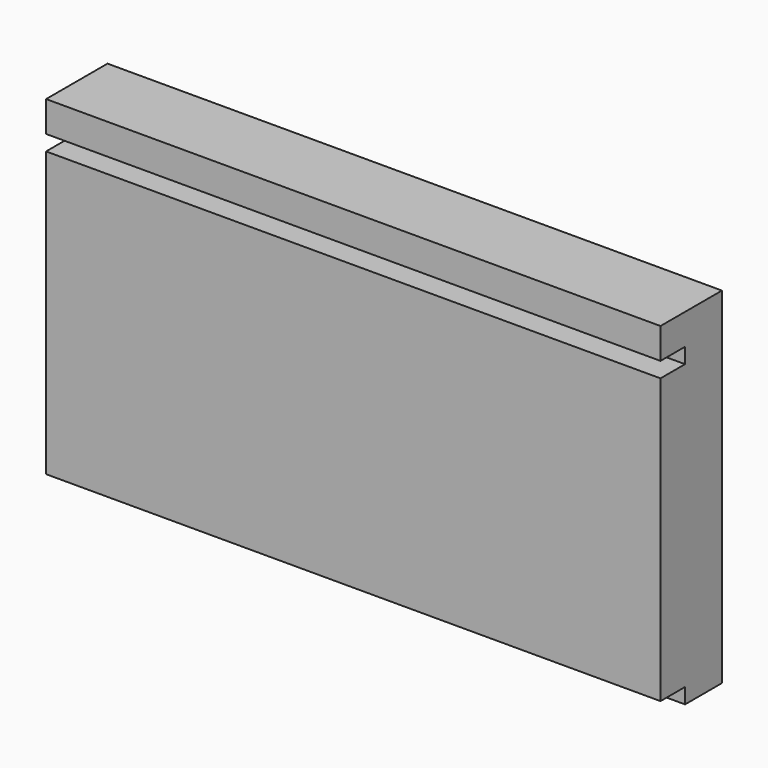
from build123d import *

# Parameters (mm, degrees)
F0_W     = 160
F0_H     = 8
F0_H_2   = 4
F0_H_3   = 74
F1_DEPTH = 12
F2_DEPTH = 20


with BuildPart() as f1:
    # F0 (on Front) → F1 (new body)
    with BuildSketch(Plane.XZ):
        with Locations((0, 41)):
            Rectangle(F0_W, F0_H)
        with Locations((0, 35)):
            Rectangle(F0_W, F0_H_2)
        with Locations((0, -4)):
            Rectangle(F0_W, F0_H_3)
        with Locations((0, -43)):
            Rectangle(F0_W, F0_H_2)
    extrude(amount=F1_DEPTH)

    # F0 (on Front) → F2 (join)
    with BuildSketch(Plane.XZ):
        with Locations((0, 41)):
            Rectangle(F0_W, F0_H)
        with Locations((0, -4)):
            Rectangle(F0_W, F0_H_3)
    extrude(amount=F2_DEPTH)


solid = f1.part
